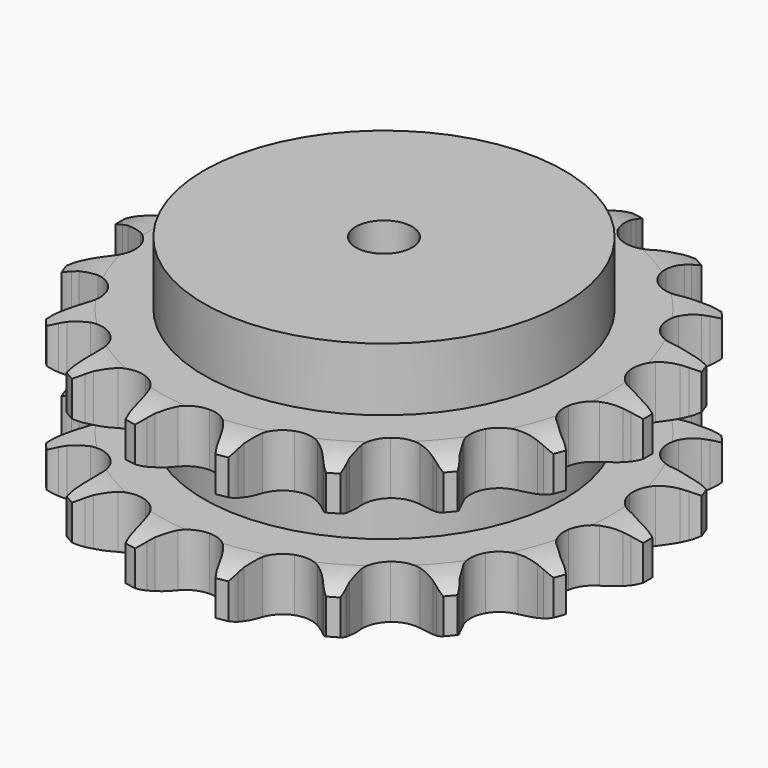
from build123d import *

# Parameters (mm, degrees)
PAD_DEPTH         = 72
SKETCH001_R       = 80
PAD001_DEPTH      = 100
SKETCH002_R       = 12.5
POCKET_DEPTH      = 0.001
POCKET_DEPTH_BACK = 100.001


with BuildPart() as part:
    # Sprocket → Pad (new body)
    with BuildSketch(Plane.XY):
        with BuildLine():
            ThreePointArc((-21.042598, 119.338501), (-17.944184, 115.927454), (-15.660104, 111.925157))
            Line((-15.660104, 111.925157), (-14.447962, 109.130014))
            ThreePointArc((-14.447962, 109.130014), (-12.484454, 105.303967), (-10.041776, 101.764571))
            ThreePointArc((-10.041776, 101.764571), (-5.578359, 98.1823), (0, 96.902978))
            ThreePointArc((0, 96.902978), (5.578359, 98.1823), (10.041776, 101.764571))
            ThreePointArc((10.041776, 101.764571), (12.484454, 105.303967), (14.447962, 109.130014))
            Line((14.447962, 109.130014), (15.660104, 111.925157))
            ThreePointArc((15.660104, 111.925157), (17.944184, 115.927454), (21.042598, 119.338501))
            ThreePointArc((21.042598, 119.338501), (22.787507, 115.073446), (23.564974, 110.531315))
            Line((23.564974, 110.531315), (23.748019, 107.490163))
            ThreePointArc((23.748019, 107.490163), (24.284528, 103.223295), (25.369351, 99.061906))
            ThreePointArc((25.369351, 99.061906), (28.338382, 94.169094), (33.14277, 91.059013))
            ThreePointArc((33.14277, 91.059013), (38.822267, 90.353272), (44.241716, 92.192927))
            Line((44.241716, 92.192927), (50.901307, 97.607175))
            ThreePointArc((50.901307, 97.607175), (51.923377, 98.737275), (52.996342, 99.819173))
            ThreePointArc((52.996342, 99.819173), (56.511542, 102.7989), (60.589745, 104.944516))
            ThreePointArc((60.589745, 104.944516), (60.770688, 100.339881), (59.947768, 95.805765))
            Line((59.947768, 95.805765), (59.079639, 92.885412))
            ThreePointArc((59.079639, 92.885412), (58.124438, 88.692371), (57.720559, 84.410913))
            ThreePointArc((57.720559, 84.410913), (58.837095, 78.797705), (62.288033, 74.231988))
            ThreePointArc((62.288033, 74.231988), (67.383637, 71.626306), (73.105452, 71.501455))
            Line((73.105452, 71.501455), (81.215202, 74.311469))
            ThreePointArc((81.215202, 74.311469), (82.562152, 75.023848), (83.94044, 75.673524))
            ThreePointArc((83.94044, 75.673524), (88.262774, 77.271282), (92.828875, 77.892674))
            ThreePointArc((92.828875, 77.892674), (91.424028, 73.503847), (89.099977, 69.524626))
            Line((89.099977, 69.524626), (87.285383, 67.077309))
            ThreePointArc((87.285383, 67.077309), (84.953683, 63.463838), (83.109816, 59.578718))
            ThreePointArc((83.109816, 59.578718), (82.239187, 53.922151), (83.92044, 48.451489))
            ThreePointArc((83.92044, 48.451489), (87.817546, 44.26015), (93.151592, 42.185853))
            Line((93.151592, 42.185853), (101.733346, 42.052704))
            ThreePointArc((101.733346, 42.052704), (103.242712, 42.261437), (104.760081, 42.400531))
            ThreePointArc((104.760081, 42.400531), (109.368212, 42.423607), (113.871472, 41.445826))
            ThreePointArc((113.871472, 41.445826), (111.050281, 37.802163), (107.505414, 34.857791))
            Line((107.505414, 34.857791), (104.963221, 33.178693))
            ThreePointArc((104.963221, 33.178693), (101.53626, 30.580629), (98.474803, 27.560451))
            ThreePointArc((98.474803, 27.560451), (95.722019, 22.542789), (95.430804, 16.827025))
            ThreePointArc((95.430804, 16.827025), (97.659362, 11.555567), (101.962275, 7.782014))
            Line((101.962275, 7.782014), (109.980946, 4.721763))
            ThreePointArc((109.980946, 4.721763), (111.470677, 4.401674), (112.944111, 4.013408))
            ThreePointArc((112.944111, 4.013408), (117.28223, 2.459019), (121.17949, 0))
            ThreePointArc((121.17949, 0), (117.28223, -2.459019), (112.944111, -4.013408))
            Line((112.944111, -4.013408), (109.980946, -4.721763))
            ThreePointArc((109.980946, -4.721763), (105.872066, -5.991055), (101.962275, -7.782014))
            ThreePointArc((101.962275, -7.782014), (97.659362, -11.555567), (95.430804, -16.827025))
            ThreePointArc((95.430804, -16.827025), (95.722019, -22.542789), (98.474803, -27.560451))
            Line((98.474803, -27.560451), (104.963221, -33.178693))
            ThreePointArc((104.963221, -33.178693), (106.253634, -33.988997), (107.505414, -34.857791))
            ThreePointArc((107.505414, -34.857791), (111.050281, -37.802163), (113.871472, -41.445826))
            ThreePointArc((113.871472, -41.445826), (109.368212, -42.423607), (104.760081, -42.400531))
            Line((104.760081, -42.400531), (101.733346, -42.052704))
            ThreePointArc((101.733346, -42.052704), (97.438137, -41.840129), (93.151592, -42.185853))
            ThreePointArc((93.151592, -42.185853), (87.817546, -44.26015), (83.92044, -48.451489))
            ThreePointArc((83.92044, -48.451489), (82.239187, -53.922151), (83.109816, -59.578718))
            Line((83.109816, -59.578718), (87.285383, -67.077309))
            ThreePointArc((87.285383, -67.077309), (88.220834, -68.280093), (89.099977, -69.524626))
            ThreePointArc((89.099977, -69.524626), (91.424028, -73.503847), (92.828875, -77.892674))
            ThreePointArc((92.828875, -77.892674), (88.262774, -77.271282), (83.94044, -75.673524))
            Line((83.94044, -75.673524), (81.215202, -74.311469))
            ThreePointArc((81.215202, -74.311469), (77.251732, -72.642666), (73.105452, -71.501455))
            ThreePointArc((73.105452, -71.501455), (67.383637, -71.626306), (62.288033, -74.231988))
            ThreePointArc((62.288033, -74.231988), (58.837095, -78.797705), (57.720559, -84.410913))
            Line((57.720559, -84.410913), (59.079639, -92.885412))
            ThreePointArc((59.079639, -92.885412), (59.5473, -94.335602), (59.947768, -95.805765))
            ThreePointArc((59.947768, -95.805765), (60.770688, -100.339881), (60.589745, -104.944516))
            ThreePointArc((60.589745, -104.944516), (56.511542, -102.7989), (52.996342, -99.819173))
            Line((52.996342, -99.819173), (50.901307, -97.607175))
            ThreePointArc((50.901307, -97.607175), (47.747627, -94.683426), (44.241716, -92.192927))
            ThreePointArc((44.241716, -92.192927), (38.822267, -90.353272), (33.14277, -91.059013))
            ThreePointArc((33.14277, -91.059013), (28.338382, -94.169094), (25.369351, -99.061906))
            Line((25.369351, -99.061906), (23.748019, -107.490163))
            ThreePointArc((23.748019, -107.490163), (23.691482, -109.012845), (23.564974, -110.531315))
            ThreePointArc((23.564974, -110.531315), (22.787507, -115.073446), (21.042598, -119.338501))
            ThreePointArc((21.042598, -119.338501), (17.944184, -115.927454), (15.660104, -111.925157))
            Line((15.660104, -111.925157), (14.447962, -109.130014))
            ThreePointArc((14.447962, -109.130014), (12.484454, -105.303967), (10.041776, -101.764571))
            ThreePointArc((10.041776, -101.764571), (5.578359, -98.1823), (0, -96.902978))
            ThreePointArc((0, -96.902978), (-5.578359, -98.1823), (-10.041776, -101.764571))
            Line((-10.041776, -101.764571), (-14.447962, -109.130014))
            ThreePointArc((-14.447962, -109.130014), (-15.021878, -110.54153), (-15.660104, -111.925157))
            ThreePointArc((-15.660104, -111.925157), (-17.944184, -115.927454), (-21.042598, -119.338501))
            ThreePointArc((-21.042598, -119.338501), (-22.787507, -115.073446), (-23.564974, -110.531315))
            Line((-23.564974, -110.531315), (-23.748019, -107.490163))
            ThreePointArc((-23.748019, -107.490163), (-24.284528, -103.223295), (-25.369351, -99.061906))
            ThreePointArc((-25.369351, -99.061906), (-28.338382, -94.169094), (-33.14277, -91.059013))
            ThreePointArc((-33.14277, -91.059013), (-38.822267, -90.353272), (-44.241716, -92.192927))
            Line((-44.241716, -92.192927), (-50.901307, -97.607175))
            ThreePointArc((-50.901307, -97.607175), (-51.923377, -98.737275), (-52.996342, -99.819173))
            ThreePointArc((-52.996342, -99.819173), (-56.511542, -102.7989), (-60.589745, -104.944516))
            ThreePointArc((-60.589745, -104.944516), (-60.770688, -100.339881), (-59.947768, -95.805765))
            Line((-59.947768, -95.805765), (-59.079639, -92.885412))
            ThreePointArc((-59.079639, -92.885412), (-58.124438, -88.692371), (-57.720559, -84.410913))
            ThreePointArc((-57.720559, -84.410913), (-58.837095, -78.797705), (-62.288033, -74.231988))
            ThreePointArc((-62.288033, -74.231988), (-67.383637, -71.626306), (-73.105452, -71.501455))
            Line((-73.105452, -71.501455), (-81.215202, -74.311469))
            ThreePointArc((-81.215202, -74.311469), (-82.562152, -75.023848), (-83.94044, -75.673524))
            ThreePointArc((-83.94044, -75.673524), (-88.262774, -77.271282), (-92.828875, -77.892674))
            ThreePointArc((-92.828875, -77.892674), (-91.424028, -73.503847), (-89.099977, -69.524626))
            Line((-89.099977, -69.524626), (-87.285383, -67.077309))
            ThreePointArc((-87.285383, -67.077309), (-84.953683, -63.463838), (-83.109816, -59.578718))
            ThreePointArc((-83.109816, -59.578718), (-82.239187, -53.922151), (-83.92044, -48.451489))
            ThreePointArc((-83.92044, -48.451489), (-87.817546, -44.26015), (-93.151592, -42.185853))
            Line((-93.151592, -42.185853), (-101.733346, -42.052704))
            ThreePointArc((-101.733346, -42.052704), (-103.242712, -42.261437), (-104.760081, -42.400531))
            ThreePointArc((-104.760081, -42.400531), (-109.368212, -42.423607), (-113.871472, -41.445826))
            ThreePointArc((-113.871472, -41.445826), (-111.050281, -37.802163), (-107.505414, -34.857791))
            Line((-107.505414, -34.857791), (-104.963221, -33.178693))
            ThreePointArc((-104.963221, -33.178693), (-101.53626, -30.580629), (-98.474803, -27.560451))
            ThreePointArc((-98.474803, -27.560451), (-95.722019, -22.542789), (-95.430804, -16.827025))
            ThreePointArc((-95.430804, -16.827025), (-97.659362, -11.555567), (-101.962275, -7.782014))
            Line((-101.962275, -7.782014), (-109.980946, -4.721763))
            ThreePointArc((-109.980946, -4.721763), (-111.470677, -4.401674), (-112.944111, -4.013408))
            ThreePointArc((-112.944111, -4.013408), (-117.28223, -2.459019), (-121.17949, 0))
            ThreePointArc((-121.17949, 0), (-117.28223, 2.459019), (-112.944111, 4.013408))
            Line((-112.944111, 4.013408), (-109.980946, 4.721763))
            ThreePointArc((-109.980946, 4.721763), (-105.872066, 5.991055), (-101.962275, 7.782014))
            ThreePointArc((-101.962275, 7.782014), (-97.659362, 11.555567), (-95.430804, 16.827025))
            ThreePointArc((-95.430804, 16.827025), (-95.722019, 22.542789), (-98.474803, 27.560451))
            Line((-98.474803, 27.560451), (-104.963221, 33.178693))
            ThreePointArc((-104.963221, 33.178693), (-106.253634, 33.988997), (-107.505414, 34.857791))
            ThreePointArc((-107.505414, 34.857791), (-111.050281, 37.802163), (-113.871472, 41.445826))
            ThreePointArc((-113.871472, 41.445826), (-109.368212, 42.423607), (-104.760081, 42.400531))
            Line((-104.760081, 42.400531), (-101.733346, 42.052704))
            ThreePointArc((-101.733346, 42.052704), (-97.438137, 41.840129), (-93.151592, 42.185853))
            ThreePointArc((-93.151592, 42.185853), (-87.817546, 44.26015), (-83.92044, 48.451489))
            ThreePointArc((-83.92044, 48.451489), (-82.239187, 53.922151), (-83.109816, 59.578718))
            Line((-83.109816, 59.578718), (-87.285383, 67.077309))
            ThreePointArc((-87.285383, 67.077309), (-88.220834, 68.280093), (-89.099977, 69.524626))
            ThreePointArc((-89.099977, 69.524626), (-91.424028, 73.503847), (-92.828875, 77.892674))
            ThreePointArc((-92.828875, 77.892674), (-88.262774, 77.271282), (-83.94044, 75.673524))
            Line((-83.94044, 75.673524), (-81.215202, 74.311469))
            ThreePointArc((-81.215202, 74.311469), (-77.251732, 72.642666), (-73.105452, 71.501455))
            ThreePointArc((-73.105452, 71.501455), (-67.383637, 71.626306), (-62.288033, 74.231988))
            ThreePointArc((-62.288033, 74.231988), (-58.837095, 78.797705), (-57.720559, 84.410913))
            Line((-57.720559, 84.410913), (-59.079639, 92.885412))
            ThreePointArc((-59.079639, 92.885412), (-59.5473, 94.335602), (-59.947768, 95.805765))
            ThreePointArc((-59.947768, 95.805765), (-60.770688, 100.339881), (-60.589745, 104.944516))
            ThreePointArc((-60.589745, 104.944516), (-56.511542, 102.7989), (-52.996342, 99.819173))
            Line((-52.996342, 99.819173), (-50.901307, 97.607175))
            ThreePointArc((-50.901307, 97.607175), (-47.747627, 94.683426), (-44.241716, 92.192927))
            ThreePointArc((-44.241716, 92.192927), (-38.822267, 90.353272), (-33.14277, 91.059013))
            ThreePointArc((-33.14277, 91.059013), (-28.338382, 94.169094), (-25.369351, 99.061906))
            Line((-25.369351, 99.061906), (-23.748019, 107.490163))
            ThreePointArc((-23.748019, 107.490163), (-23.691482, 109.012845), (-23.564974, 110.531315))
            ThreePointArc((-23.564974, 110.531315), (-22.787507, 115.073446), (-21.042598, 119.338501))
        make_face()
    extrude(amount=PAD_DEPTH)

    # Sketch → Groove (revolve, cut)
    with BuildSketch(Plane.XZ):
        with BuildLine():
            ThreePointArc((100.179437, 0), (108.897235, 1.013516), (117.15, 4))
            Line((117.15, 4), (117.15, 19.6))
            ThreePointArc((117.15, 19.6), (108.897235, 22.586484), (100.179437, 23.6))
            Line((80, 23.6), (100.179437, 23.6))
            Line((80, 48.4), (80, 23.6))
            Line((100.179437, 48.4), (80, 48.4))
            ThreePointArc((100.179437, 48.4), (108.897235, 49.413516), (117.15, 52.4))
            Line((117.15, 52.4), (117.15, 68))
            ThreePointArc((117.15, 68), (108.897235, 70.986484), (100.179437, 72))
            Line((100.179437, 72), (127.15, 72))
            Line((127.15, 72), (127.15, 0))
            Line((100.179437, 0), (127.15, 0))
        make_face()
    revolve(axis=Axis((0, 0, 0), (0, 0, 1)), mode=Mode.SUBTRACT)

    # Sketch001 → Pad001 (join)
    with BuildSketch(Plane.XY):
        Circle(SKETCH001_R)
    extrude(amount=PAD001_DEPTH)

    # Sketch002 → Pocket (cut, two sides)
    with BuildSketch(Plane.XY) as pocket_sk:
        Circle(SKETCH002_R)
    extrude(amount=-POCKET_DEPTH, mode=Mode.SUBTRACT)
    extrude(pocket_sk.sketch, amount=POCKET_DEPTH_BACK, mode=Mode.SUBTRACT)


solid = part.part
